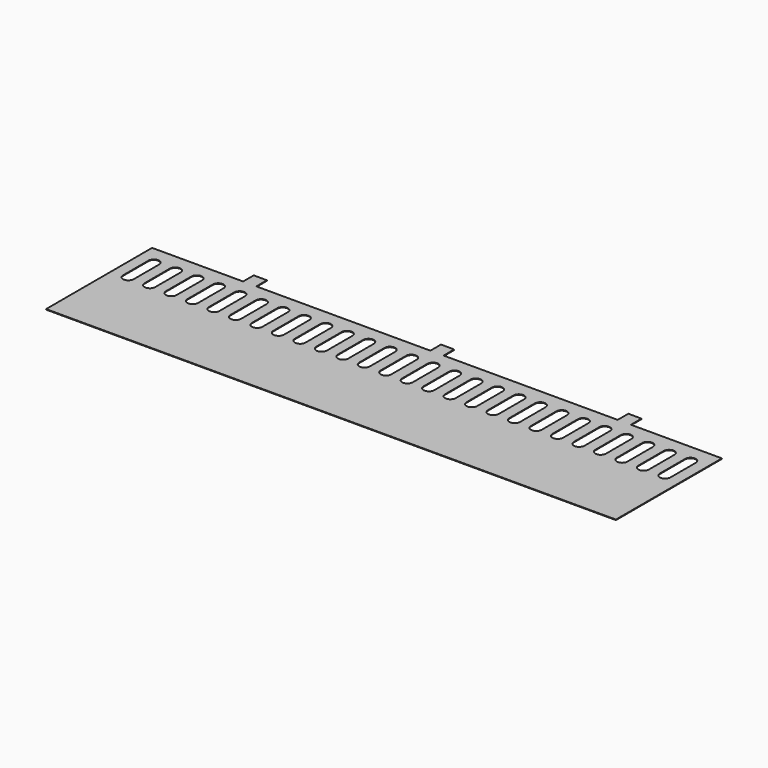
from build123d import *

# Parameters (mm, degrees)
F0_W     = 25
F0_H     = 25
F0_H_2   = 25.0466006994
F1_DEPTH = 1


with BuildPart() as f1:
    # F0 (on Top) → F1 (new body)
    with BuildSketch(Plane.XY):
        Polygon((54.3464002442, -164.6386671066), (-117.3235997558, -164.6386671066), (-117.3235997558, -414.6386671066), (957.6764002442, -414.6386671066), (957.6764002442, -164.6386671066), (786.0064002442, -164.6386671066), (761.0064002442, -164.6386671066), (432.6764002442, -164.6386671066), (407.6764002442, -164.6386671066), (79.3464002442, -164.6386671066), align=None)
        with BuildLine():
            ThreePointArc((-96.0735997558, -199.6386671066), (-86.0735997558, -189.6386671066), (-76.0735997558, -199.6386671066))
            Line((-76.0735997558, -199.6386671066), (-76.0735997558, -259.6386671066))
            ThreePointArc((-76.0735997558, -259.6386671066), (-86.0735997558, -269.6386671066), (-96.0735997558, -259.6386671066))
            Line((-96.0735997558, -259.6386671066), (-96.0735997558, -199.6386671066))
        make_face(mode=Mode.SUBTRACT)
        with BuildLine():
            ThreePointArc((-55.5735997558, -199.6386671066), (-45.5735997558, -189.6386671066), (-35.5735997558, -199.6386671066))
            Line((-35.5735997558, -199.6386671066), (-35.5735997558, -259.6386671066))
            ThreePointArc((-35.5735997558, -259.6386671066), (-45.5735997558, -269.6386671066), (-55.5735997558, -259.6386671066))
            Line((-55.5735997558, -259.6386671066), (-55.5735997558, -199.6386671066))
        make_face(mode=Mode.SUBTRACT)
        with BuildLine():
            ThreePointArc((-15.0735997558, -199.6386671066), (-5.0735997558, -189.6386671066), (4.9264002442, -199.6386671066))
            Line((4.9264002442, -199.6386671066), (4.9264002442, -259.6386671066))
            ThreePointArc((4.9264002442, -259.6386671066), (-5.0735997558, -269.6386671066), (-15.0735997558, -259.6386671066))
            Line((-15.0735997558, -259.6386671066), (-15.0735997558, -199.6386671066))
        make_face(mode=Mode.SUBTRACT)
        with BuildLine():
            ThreePointArc((25.4264002442, -199.6386671066), (35.4264002442, -189.6386671066), (45.4264002442, -199.6386671066))
            Line((45.4264002442, -199.6386671066), (45.4264002442, -259.6386671066))
            ThreePointArc((45.4264002442, -259.6386671066), (35.4264002442, -269.6386671066), (25.4264002442, -259.6386671066))
            Line((25.4264002442, -259.6386671066), (25.4264002442, -199.6386671066))
        make_face(mode=Mode.SUBTRACT)
        with BuildLine():
            ThreePointArc((65.9264002442, -199.6386671066), (75.9264002442, -189.6386671066), (85.9264002442, -199.6386671066))
            Line((85.9264002442, -199.6386671066), (85.9264002442, -259.6386671066))
            ThreePointArc((85.9264002442, -259.6386671066), (75.9264002442, -269.6386671066), (65.9264002442, -259.6386671066))
            Line((65.9264002442, -259.6386671066), (65.9264002442, -199.6386671066))
        make_face(mode=Mode.SUBTRACT)
        with BuildLine():
            ThreePointArc((106.4264002442, -199.6386671066), (116.4264002442, -189.6386671066), (126.4264002442, -199.6386671066))
            Line((126.4264002442, -199.6386671066), (126.4264002442, -259.6386671066))
            ThreePointArc((126.4264002442, -259.6386671066), (116.4264002442, -269.6386671066), (106.4264002442, -259.6386671066))
            Line((106.4264002442, -259.6386671066), (106.4264002442, -199.6386671066))
        make_face(mode=Mode.SUBTRACT)
        with BuildLine():
            ThreePointArc((146.9264002442, -199.6386671066), (156.9264002442, -189.6386671066), (166.9264002442, -199.6386671066))
            Line((166.9264002442, -199.6386671066), (166.9264002442, -259.6386671066))
            ThreePointArc((166.9264002442, -259.6386671066), (156.9264002442, -269.6386671066), (146.9264002442, -259.6386671066))
            Line((146.9264002442, -259.6386671066), (146.9264002442, -199.6386671066))
        make_face(mode=Mode.SUBTRACT)
        with BuildLine():
            ThreePointArc((187.4264002442, -199.6386671066), (197.4264002442, -189.6386671066), (207.4264002442, -199.6386671066))
            Line((207.4264002442, -199.6386671066), (207.4264002442, -259.6386671066))
            ThreePointArc((207.4264002442, -259.6386671066), (197.4264002442, -269.6386671066), (187.4264002442, -259.6386671066))
            Line((187.4264002442, -259.6386671066), (187.4264002442, -199.6386671066))
        make_face(mode=Mode.SUBTRACT)
        with BuildLine():
            ThreePointArc((227.9264002442, -199.6386671066), (237.9264002442, -189.6386671066), (247.9264002442, -199.6386671066))
            Line((247.9264002442, -199.6386671066), (247.9264002442, -259.6386671066))
            ThreePointArc((247.9264002442, -259.6386671066), (237.9264002442, -269.6386671066), (227.9264002442, -259.6386671066))
            Line((227.9264002442, -259.6386671066), (227.9264002442, -199.6386671066))
        make_face(mode=Mode.SUBTRACT)
        with BuildLine():
            ThreePointArc((268.4264002442, -199.6386671066), (278.4264002442, -189.6386671066), (288.4264002442, -199.6386671066))
            Line((288.4264002442, -199.6386671066), (288.4264002442, -259.6386671066))
            ThreePointArc((288.4264002442, -259.6386671066), (278.4264002442, -269.6386671066), (268.4264002442, -259.6386671066))
            Line((268.4264002442, -259.6386671066), (268.4264002442, -199.6386671066))
        make_face(mode=Mode.SUBTRACT)
        with BuildLine():
            ThreePointArc((308.9264002442, -199.6386671066), (318.9264002442, -189.6386671066), (328.9264002442, -199.6386671066))
            Line((328.9264002442, -199.6386671066), (328.9264002442, -259.6386671066))
            ThreePointArc((328.9264002442, -259.6386671066), (318.9264002442, -269.6386671066), (308.9264002442, -259.6386671066))
            Line((308.9264002442, -259.6386671066), (308.9264002442, -199.6386671066))
        make_face(mode=Mode.SUBTRACT)
        with BuildLine():
            ThreePointArc((349.4264002442, -199.6386671066), (359.4264002442, -189.6386671066), (369.4264002442, -199.6386671066))
            Line((369.4264002442, -199.6386671066), (369.4264002442, -259.6386671066))
            ThreePointArc((369.4264002442, -259.6386671066), (359.4264002442, -269.6386671066), (349.4264002442, -259.6386671066))
            Line((349.4264002442, -259.6386671066), (349.4264002442, -199.6386671066))
        make_face(mode=Mode.SUBTRACT)
        with BuildLine():
            ThreePointArc((389.9264002442, -199.6386671066), (399.9264002442, -189.6386671066), (409.9264002442, -199.6386671066))
            Line((409.9264002442, -199.6386671066), (409.9264002442, -259.6386671066))
            ThreePointArc((409.9264002442, -259.6386671066), (399.9264002442, -269.6386671066), (389.9264002442, -259.6386671066))
            Line((389.9264002442, -259.6386671066), (389.9264002442, -199.6386671066))
        make_face(mode=Mode.SUBTRACT)
        with BuildLine():
            ThreePointArc((430.4264002442, -199.6386671066), (440.4264002442, -189.6386671066), (450.4264002442, -199.6386671066))
            Line((450.4264002442, -199.6386671066), (450.4264002442, -259.6386671066))
            ThreePointArc((450.4264002442, -259.6386671066), (440.4264002442, -269.6386671066), (430.4264002442, -259.6386671066))
            Line((430.4264002442, -259.6386671066), (430.4264002442, -199.6386671066))
        make_face(mode=Mode.SUBTRACT)
        with BuildLine():
            ThreePointArc((470.9264002442, -199.6386671066), (480.9264002442, -189.6386671066), (490.9264002442, -199.6386671066))
            Line((490.9264002442, -199.6386671066), (490.9264002442, -259.6386671066))
            ThreePointArc((490.9264002442, -259.6386671066), (480.9264002442, -269.6386671066), (470.9264002442, -259.6386671066))
            Line((470.9264002442, -259.6386671066), (470.9264002442, -199.6386671066))
        make_face(mode=Mode.SUBTRACT)
        with BuildLine():
            ThreePointArc((511.4264002442, -199.6386671066), (521.4264002442, -189.6386671066), (531.4264002442, -199.6386671066))
            Line((531.4264002442, -199.6386671066), (531.4264002442, -259.6386671066))
            ThreePointArc((531.4264002442, -259.6386671066), (521.4264002442, -269.6386671066), (511.4264002442, -259.6386671066))
            Line((511.4264002442, -259.6386671066), (511.4264002442, -199.6386671066))
        make_face(mode=Mode.SUBTRACT)
        with BuildLine():
            ThreePointArc((551.9264002442, -199.6386671066), (561.9264002442, -189.6386671066), (571.9264002442, -199.6386671066))
            Line((571.9264002442, -199.6386671066), (571.9264002442, -259.6386671066))
            ThreePointArc((571.9264002442, -259.6386671066), (561.9264002442, -269.6386671066), (551.9264002442, -259.6386671066))
            Line((551.9264002442, -259.6386671066), (551.9264002442, -199.6386671066))
        make_face(mode=Mode.SUBTRACT)
        with BuildLine():
            ThreePointArc((592.4264002442, -199.6386671066), (602.4264002442, -189.6386671066), (612.4264002442, -199.6386671066))
            Line((612.4264002442, -199.6386671066), (612.4264002442, -259.6386671066))
            ThreePointArc((612.4264002442, -259.6386671066), (602.4264002442, -269.6386671066), (592.4264002442, -259.6386671066))
            Line((592.4264002442, -259.6386671066), (592.4264002442, -199.6386671066))
        make_face(mode=Mode.SUBTRACT)
        with BuildLine():
            ThreePointArc((632.9264002442, -199.6386671066), (642.9264002442, -189.6386671066), (652.9264002442, -199.6386671066))
            Line((652.9264002442, -199.6386671066), (652.9264002442, -259.6386671066))
            ThreePointArc((652.9264002442, -259.6386671066), (642.9264002442, -269.6386671066), (632.9264002442, -259.6386671066))
            Line((632.9264002442, -259.6386671066), (632.9264002442, -199.6386671066))
        make_face(mode=Mode.SUBTRACT)
        with BuildLine():
            ThreePointArc((673.4264002442, -199.6386671066), (683.4264002442, -189.6386671066), (693.4264002442, -199.6386671066))
            Line((693.4264002442, -199.6386671066), (693.4264002442, -259.6386671066))
            ThreePointArc((693.4264002442, -259.6386671066), (683.4264002442, -269.6386671066), (673.4264002442, -259.6386671066))
            Line((673.4264002442, -259.6386671066), (673.4264002442, -199.6386671066))
        make_face(mode=Mode.SUBTRACT)
        with BuildLine():
            ThreePointArc((713.9264002442, -199.6386671066), (723.9264002442, -189.6386671066), (733.9264002442, -199.6386671066))
            Line((733.9264002442, -199.6386671066), (733.9264002442, -259.6386671066))
            ThreePointArc((733.9264002442, -259.6386671066), (723.9264002442, -269.6386671066), (713.9264002442, -259.6386671066))
            Line((713.9264002442, -259.6386671066), (713.9264002442, -199.6386671066))
        make_face(mode=Mode.SUBTRACT)
        with BuildLine():
            ThreePointArc((754.4264002442, -199.6386671066), (764.4264002442, -189.6386671066), (774.4264002442, -199.6386671066))
            Line((774.4264002442, -199.6386671066), (774.4264002442, -259.6386671066))
            ThreePointArc((774.4264002442, -259.6386671066), (764.4264002442, -269.6386671066), (754.4264002442, -259.6386671066))
            Line((754.4264002442, -259.6386671066), (754.4264002442, -199.6386671066))
        make_face(mode=Mode.SUBTRACT)
        with BuildLine():
            ThreePointArc((794.9264002442, -199.6386671066), (804.9264002442, -189.6386671066), (814.9264002442, -199.6386671066))
            Line((814.9264002442, -199.6386671066), (814.9264002442, -259.6386671066))
            ThreePointArc((814.9264002442, -259.6386671066), (804.9264002442, -269.6386671066), (794.9264002442, -259.6386671066))
            Line((794.9264002442, -259.6386671066), (794.9264002442, -199.6386671066))
        make_face(mode=Mode.SUBTRACT)
        with BuildLine():
            ThreePointArc((835.4264002442, -199.6386671066), (845.4264002442, -189.6386671066), (855.4264002442, -199.6386671066))
            Line((855.4264002442, -199.6386671066), (855.4264002442, -259.6386671066))
            ThreePointArc((855.4264002442, -259.6386671066), (845.4264002442, -269.6386671066), (835.4264002442, -259.6386671066))
            Line((835.4264002442, -259.6386671066), (835.4264002442, -199.6386671066))
        make_face(mode=Mode.SUBTRACT)
        with BuildLine():
            ThreePointArc((875.9264002442, -199.6386671066), (885.9264002442, -189.6386671066), (895.9264002442, -199.6386671066))
            Line((895.9264002442, -199.6386671066), (895.9264002442, -259.6386671066))
            ThreePointArc((895.9264002442, -259.6386671066), (885.9264002442, -269.6386671066), (875.9264002442, -259.6386671066))
            Line((875.9264002442, -259.6386671066), (875.9264002442, -199.6386671066))
        make_face(mode=Mode.SUBTRACT)
        with BuildLine():
            ThreePointArc((916.4264002442, -199.6386671066), (926.4264002442, -189.6386671066), (936.4264002442, -199.6386671066))
            Line((936.4264002442, -199.6386671066), (936.4264002442, -259.6386671066))
            ThreePointArc((936.4264002442, -259.6386671066), (926.4264002442, -269.6386671066), (916.4264002442, -259.6386671066))
            Line((916.4264002442, -259.6386671066), (916.4264002442, -199.6386671066))
        make_face(mode=Mode.SUBTRACT)
        with Locations((66.8464002442, -152.1386671066)):
            Rectangle(F0_W, F0_H)
        with Locations((420.1764002442, -152.1386671066)):
            Rectangle(F0_W, F0_H)
        with Locations((773.5064002442, -152.1153667569)):
            Rectangle(F0_W, F0_H_2)
    extrude(amount=F1_DEPTH)


solid = f1.part
